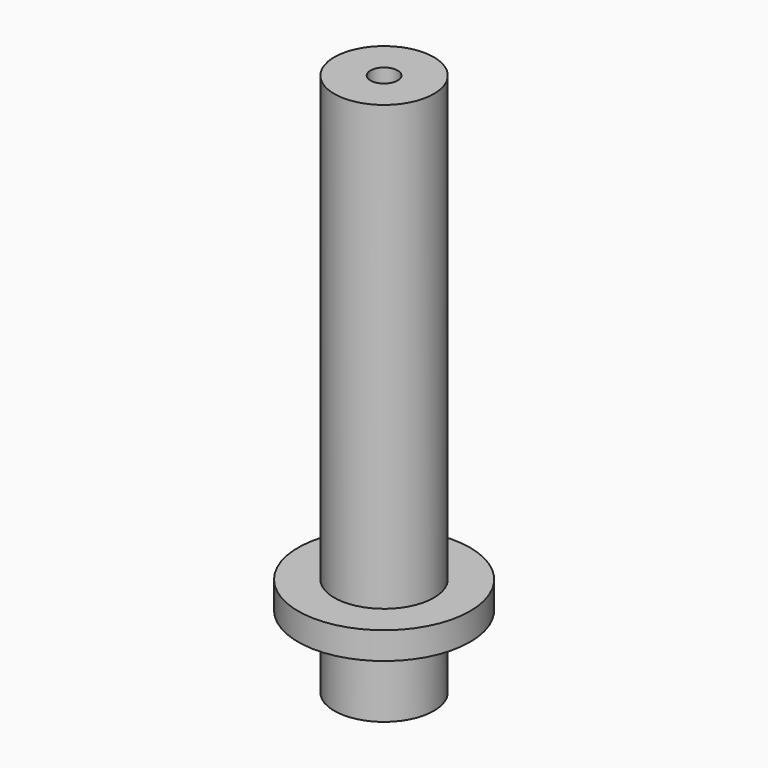
from build123d import *

# Parameters (mm, degrees)
CYLINDER106_R     = 1.5
CYLINDER106_DEPTH = 108
CYLINDER105_R     = 5.5
CYLINDER105_DEPTH = 60
CYLINDER108_R     = 9.5
CYLINDER108_DEPTH = 3


with BuildPart() as obj1:
    # Cylinder106 → Cylinder106 (new body)
    with BuildSketch(Plane(origin=(86.69, 175.69, -20), x_dir=(1, 0, 0), z_dir=(0, 0, 1))):
        Circle(CYLINDER106_R)
    extrude(amount=CYLINDER106_DEPTH)


with BuildPart() as obj2:
    # Cylinder105 → Cylinder105 (new body)
    with BuildSketch(Plane(origin=(86.69, 175.69, -16), x_dir=(1, 0, 0), z_dir=(0, 0, 1))):
        Circle(CYLINDER105_R)
    extrude(amount=CYLINDER105_DEPTH)


with BuildPart() as obj3:
    # Cylinder108 → Cylinder108 (new body)
    with BuildSketch(Plane(origin=(86.69, 175.69, -8), x_dir=(1, 0, 0), z_dir=(0, 0, 1))):
        Circle(CYLINDER108_R)
    extrude(amount=CYLINDER108_DEPTH)

    # Fusion044: union obj2
    add(obj2.part)

    # Cut012: cut obj1
    add(obj1.part, mode=Mode.SUBTRACT)


solid = obj3.part
